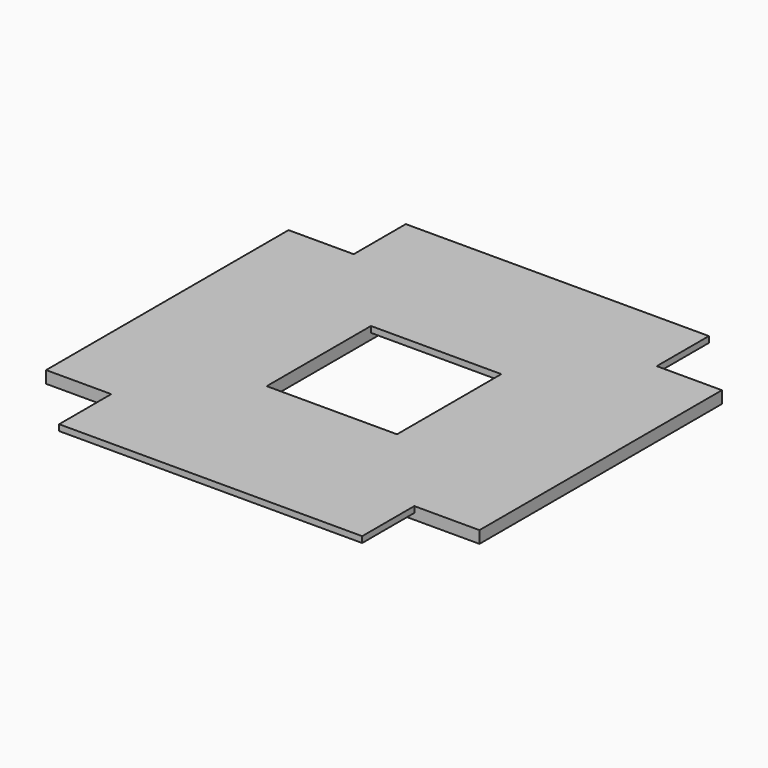
from build123d import *

# Parameters (mm, degrees)
BOX006_W     = 5
BOX006_H     = 10
BOX006_DEPTH = 0.4
BOX008_W     = 10
BOX008_H     = 5
BOX008_DEPTH = 0.2
BOX007_W     = 10
BOX007_H     = 5
BOX007_DEPTH = 0.2
BOX005_W     = 5
BOX005_H     = 10
BOX005_DEPTH = 0.4


with BuildPart() as cube006:
    # Box006 → Box006 (new body)
    with BuildSketch(Plane(origin=(2.15, -5, 0), x_dir=(1, 0, 0), z_dir=(0, 0, 1))):
        with Locations((2.5, 5)):
            Rectangle(BOX006_W, BOX006_H)
    extrude(amount=BOX006_DEPTH)


with BuildPart() as cube008:
    # Box008 → Box008 (new body)
    with BuildSketch(Plane(origin=(-5, -7.15, 0.2), x_dir=(1, 0, 0), z_dir=(0, 0, 1))):
        with Locations((5, 2.5)):
            Rectangle(BOX008_W, BOX008_H)
    extrude(amount=BOX008_DEPTH)


with BuildPart() as cube007:
    # Box007 → Box007 (new body)
    with BuildSketch(Plane(origin=(-5, 2.15, 0.2), x_dir=(1, 0, 0), z_dir=(0, 0, 1))):
        with Locations((5, 2.5)):
            Rectangle(BOX007_W, BOX007_H)
    extrude(amount=BOX007_DEPTH)


with BuildPart() as fusion001003:
    # Box005 → Box005 (new body)
    with BuildSketch(Plane(origin=(-7.15, -5, 0), x_dir=(1, 0, 0), z_dir=(0, 0, 1))):
        with Locations((2.5, 5)):
            Rectangle(BOX005_W, BOX005_H)
    extrude(amount=BOX005_DEPTH)

    # Fusion001003: union Cube006, Cube008, Cube007
    add(cube006.part)
    add(cube008.part)
    add(cube007.part)


with BuildPart() as fusion001003_1:
    # Fusion001003 placement: moved
    add(fusion001003.part.moved(Location((10, 50, 2.5))))


solid = fusion001003_1.part
